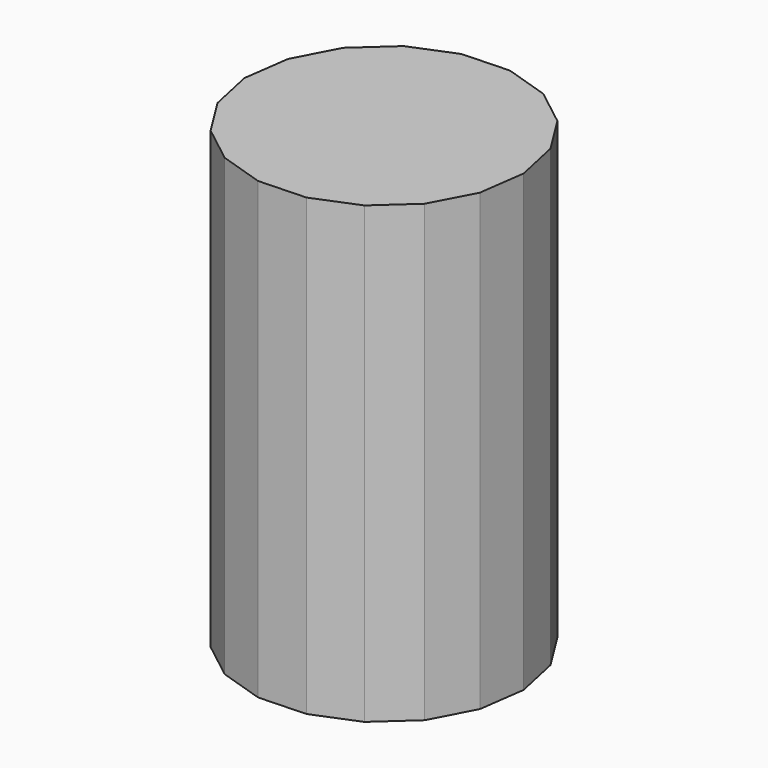
from build123d import *

# Parameters (mm, degrees)
F1_DEPTH = 189.484


with BuildPart() as f1:
    # F0 (on Top) → F1 (new body)
    with BuildSketch(Plane.XY):
        Polygon((52.341661, 21.329569), (41.88993, 37.945141), (26.385655, 49.983969), (7.698881, 55.993993), (-11.916491, 55.250314), (-30.094559, 47.842632), (-44.642779, 34.664423), (-53.806421, 17.305173), (-56.480215, -2.141337), (-52.341661, -21.329569), (-41.88993, -37.945141), (-26.385655, -49.983969), (-7.698881, -55.993993), (11.916491, -55.250314), (30.094559, -47.842632), (44.642779, -34.664423), (53.806421, -17.305173), (56.480215, 2.141337), align=None)
    extrude(amount=F1_DEPTH)


solid = f1.part
